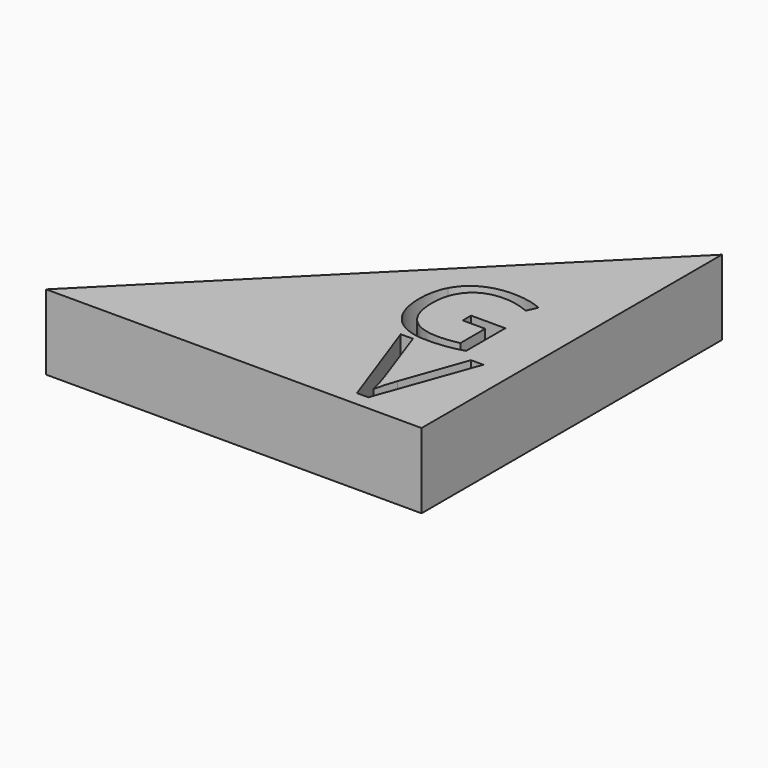
from build123d import *

# Parameters (mm, degrees)
F1_DEPTH = 12.7


with BuildPart() as f1:
    # F0 (on Top) → F1 (new body, symmetric)
    with BuildSketch(Plane.XY):
        Polygon((-122.5327046812, -54.3674736917), (4.4672953188, -54.3674736917), (4.4672953188, 72.6325263083), align=None)
        with BuildLine():
            Line((-17.2574833835, -37.4583129991), (-9.5961483296, -15.8979658839))
            Line((-9.5961483296, -15.8979658839), (-5.4058970693, -15.8979658839))
            Line((-5.4058970693, -15.8979658839), (-17.4849751332, -49.4273144098))
            Line((-17.4849751332, -49.4273144098), (-21.3376579907, -49.4273144098))
            Line((-21.3376579907, -49.4273144098), (-33.3580285062, -15.8979658839))
            Line((-33.3580285062, -15.8979658839), (-29.2264847942, -15.8979658839))
            Line((-29.2264847942, -15.8979658839), (-21.5211190792, -37.5904049828))
            add(Edge.make_bspline(
                [(-21.5211190792, -37.5904049828), (-20.1928607988, -41.3330111872), (-19.4149857837, -44.8628025291)],
                knots=[0, 0, 0, 1, 1, 1], degree=2))
            add(Edge.make_bspline(
                [(-19.4149857837, -44.8628025291), (-18.5857416639, -41.1495500988), (-17.2574833835, -37.4583129991)],
                knots=[0, 0, 0, 1, 1, 1], degree=2))
        make_face(mode=Mode.SUBTRACT)
        with BuildLine():
            Line((-25.4935947775, 0.492209956), (-25.4935947775, 4.0333001713))
            Line((-25.4935947775, 4.0333001713), (-13.9160935053, 4.0333001713))
            Line((-13.9160935053, 4.0333001713), (-13.9160935053, -12.5315471093))
            add(Edge.make_bspline(
                [(-13.9160935053, -12.5315471093), (-16.6222319224, -13.3963186145), (-19.4178294608, -13.8398867572)],
                knots=[0, 0, 0, 1, 1, 1], degree=2))
            add(Edge.make_bspline(
                [(-19.4178294608, -13.8398867572), (-22.2134269991, -14.2834549), (-25.896160823, -14.2834549)],
                knots=[0, 0, 0, 1, 1, 1], degree=2))
            add(Edge.make_bspline(
                [(-25.896160823, -14.2834549), (-33.6269198824, -14.2834549), (-37.9358675548, -9.6800376202)],
                knots=[0, 0, 0, 1, 1, 1], degree=2))
            add(Edge.make_bspline(
                [(-37.9358675548, -9.6800376202), (-42.2448152273, -5.0766203403), (-42.2448152273, 3.2132582267)],
                knots=[0, 0, 0, 1, 1, 1], degree=2))
            add(Edge.make_bspline(
                [(-42.2448152273, 3.2132582267), (-42.2448152273, 8.528621013), (-40.1127061713, 12.5244617611)],
                knots=[0, 0, 0, 1, 1, 1], degree=2))
            add(Edge.make_bspline(
                [(-40.1127061713, 12.5244617611), (-37.9805971154, 16.5203025093), (-33.9735739771, 18.6263193215)],
                knots=[0, 0, 0, 1, 1, 1], degree=2))
            add(Edge.make_bspline(
                [(-33.9735739771, 18.6263193215), (-29.9665508388, 20.7323361337), (-24.5915486384, 20.7323361337)],
                knots=[0, 0, 0, 1, 1, 1], degree=2))
            add(Edge.make_bspline(
                [(-24.5915486384, 20.7323361337), (-19.1345422436, 20.7323361337), (-14.4304834524, 18.7344157596)],
                knots=[0, 0, 0, 1, 1, 1], degree=2))
            Line((-14.4304834524, 18.7344157596), (-15.9661983668, 15.238055105))
            add(Edge.make_bspline(
                [(-15.9661983668, 15.238055105), (-20.5807980367, 17.1912459185), (-24.8450161486, 17.1912459185)],
                knots=[0, 0, 0, 1, 1, 1], degree=2))
            add(Edge.make_bspline(
                [(-24.8450161486, 17.1912459185), (-31.0624250739, 17.1912459185), (-34.5587857285, 13.4898747777)],
                knots=[0, 0, 0, 1, 1, 1], degree=2))
            add(Edge.make_bspline(
                [(-34.5587857285, 13.4898747777), (-38.0551463831, 9.7885036369), (-38.0551463831, 3.2132582267)],
                knots=[0, 0, 0, 1, 1, 1], degree=2))
            add(Edge.make_bspline(
                [(-38.0551463831, 3.2132582267), (-38.0551463831, -3.6825490346), (-34.6892469469, -7.2460040301)],
                knots=[0, 0, 0, 1, 1, 1], degree=2))
            add(Edge.make_bspline(
                [(-34.6892469469, -7.2460040301), (-31.3233475108, -10.8094590257), (-24.8002865879, -10.8094590257)],
                knots=[0, 0, 0, 1, 1, 1], degree=2))
            add(Edge.make_bspline(
                [(-24.8002865879, -10.8094590257), (-21.2591963727, -10.8094590257), (-17.8821145464, -9.9894170811)],
                knots=[0, 0, 0, 1, 1, 1], degree=2))
            Line((-17.8821145464, -9.9894170811), (-17.8821145464, 0.492209956))
            Line((-17.8821145464, 0.492209956), (-25.4935947775, 0.492209956))
        make_face(mode=Mode.SUBTRACT)
    extrude(amount=F1_DEPTH, both=True)


solid = f1.part
